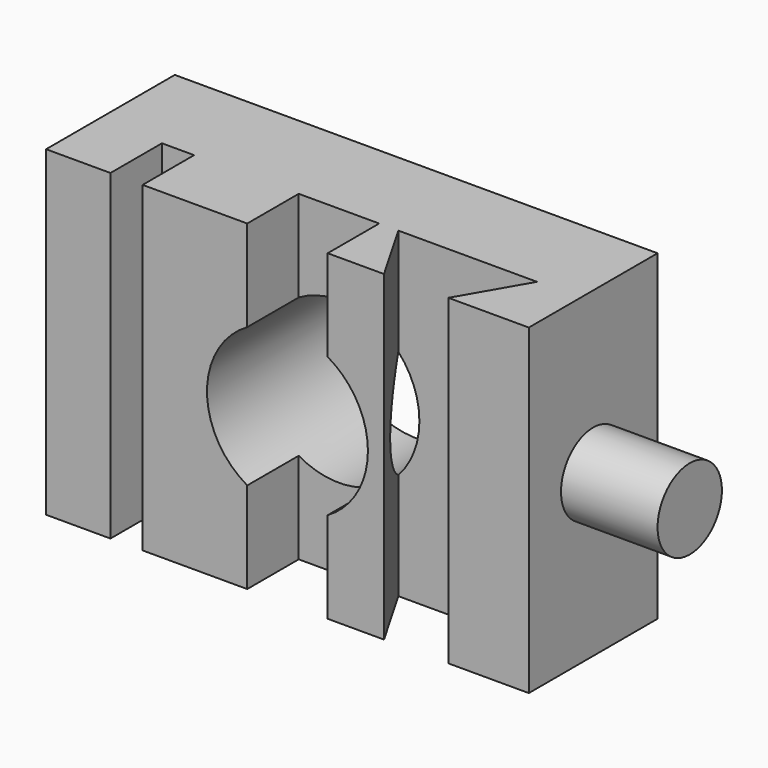
from build123d import *

# Parameters (mm, degrees)
F0_W     = 30
F0_H     = 20
F0_R     = 5
F1_DEPTH = 10
F2_W     = 2
F2_H     = 20
F3_DEPTH = 4
F5_DEPTH = 20
F6_R     = 2.5
F7_DEPTH = 6


with BuildPart() as f1:
    # F0 (on Front) → F1 (new body)
    with BuildSketch(Plane.XZ):
        Rectangle(F0_W, F0_H)
        Circle(F0_R, mode=Mode.SUBTRACT)
    extrude(amount=F1_DEPTH)

    # F2 (on face) → F3 (cut)
    with BuildSketch(Plane.XZ.offset(10)):
        with Locations((-10, 0)):
            Rectangle(F2_W, F2_H)
        with BuildLine():
            Line((2.5, 10), (-2.5, 10))
            Line((-2.5, 10), (-2.5, 4.330127))
            ThreePointArc((-2.5, 4.330127), (0, 5), (2.5, 4.330127))
            Line((2.5, 4.330127), (2.5, 10))
        make_face()
        with BuildLine():
            Line((-2.5, -4.330127), (-2.5, -10))
            Line((-2.5, -10), (2.5, -10))
            Line((2.5, -10), (2.5, -4.330127))
            ThreePointArc((2.5, -4.330127), (0, -5), (-2.5, -4.330127))
        make_face()
    extrude(amount=-F3_DEPTH, mode=Mode.SUBTRACT)

    # F4 (on face) → F5 (cut, through all)
    with BuildSketch(Plane(origin=(0, 0, -10), x_dir=(1, 0, 0), z_dir=(0, 0, -1))):
        Polygon((10, 10), (6, 10), (3.690599, 6), (12.309401, 6), align=None)
    extrude(amount=-F5_DEPTH, mode=Mode.SUBTRACT)

    # F6 (on face) → F7 (join)
    with BuildSketch(Plane.YZ.offset(15)):
        with Locations((-5, 0)):
            Circle(F6_R)
    extrude(amount=F7_DEPTH)


solid = f1.part
